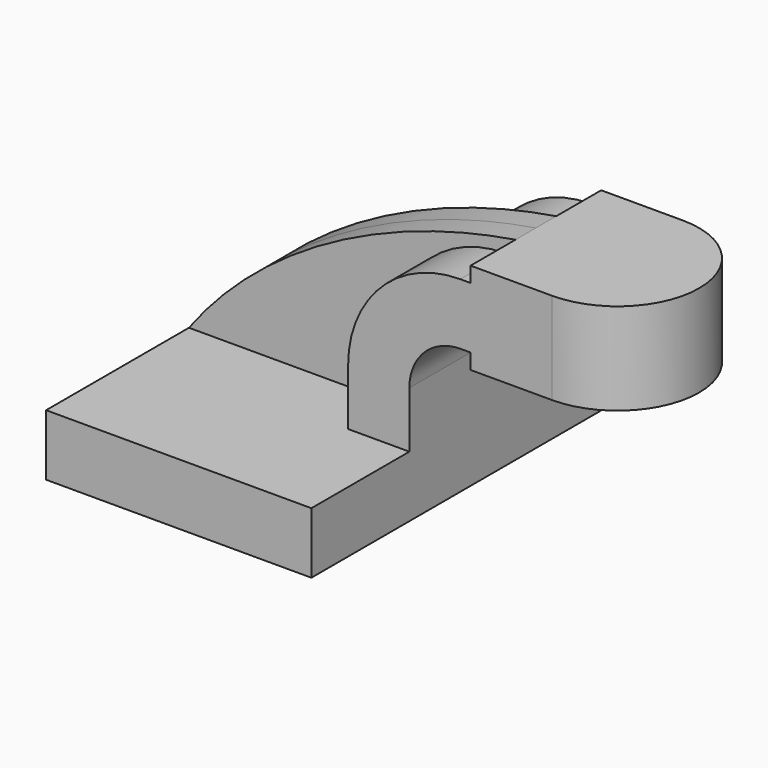
from build123d import *

# Parameters (mm, degrees)
F1_DEPTH = 63.5
F2_DEPTH = 25.4
F3_DEPTH = 7.9375
F0_W     = 25.4
F0_H     = 28.575


with BuildPart() as f1:
    # F0 (on Front) → F1 (new body, symmetric)
    with BuildSketch(Plane.XZ):
        Polygon((-41.275, 9.525), (-41.275, -9.525), (41.275, -9.525), (41.275, 9.525), (22.225, 9.525), align=None)
    extrude(amount=F1_DEPTH, both=True)

    # F0 (on Front) → F2 (join, symmetric)
    with BuildSketch(Plane.XZ):
        with BuildLine():
            Line((22.225, 9.525), (41.275, 9.525))
            Line((41.275, 9.525), (41.275, 27.0002))
            ThreePointArc((41.275, 27.0002), (45.92468, 38.22552), (57.15, 42.8752))
            Line((57.15, 42.8752), (60.325, 42.8752))
            Line((60.325, 42.8752), (60.325, 61.9252))
            Line((60.325, 61.9252), (57.15, 61.9252))
            ThreePointArc((57.15, 61.9252), (32.454296, 51.695904), (22.225, 27.0002))
            Line((22.225, 27.0002), (22.225, 9.525))
        make_face()
        Polygon((85.725, 66.675), (60.325, 66.675), (60.325, 61.9252), (60.325, 42.8752), (60.325, 38.1), (85.725, 38.1), align=None)
    extrude(amount=F2_DEPTH, both=True)

    # F0 (on Front) → F3 (join, symmetric)
    with BuildSketch(Plane.XZ):
        with BuildLine():
            add(Edge.make_bspline(
                [(-41.275, 9.525), (-19.730542, 38.604709), (17.001747, 59.660653), (60.325, 66.675)],
                knots=[0, 0, 0, 0, 116.570504, 116.570504, 116.570504, 116.570504], degree=3))
            Line((-41.275, 9.525), (22.225, 9.525))
            Line((22.225, 9.525), (22.225, 27.0002))
            ThreePointArc((22.225, 27.0002), (32.454296, 51.695904), (57.15, 61.9252))
            Line((57.15, 61.9252), (60.325, 61.9252))
            Line((60.325, 61.9252), (60.325, 66.675))
        make_face()
    extrude(amount=F3_DEPTH, both=True)

    # F0 (on Front) → F4 (revolve)
    with BuildSketch(Plane.XZ):
        with Locations((98.425, 52.3875)):
            Rectangle(F0_W, F0_H)
    revolve(axis=Axis((85.725, 0, 52.3875), (0, 0, -1)))


solid = f1.part
